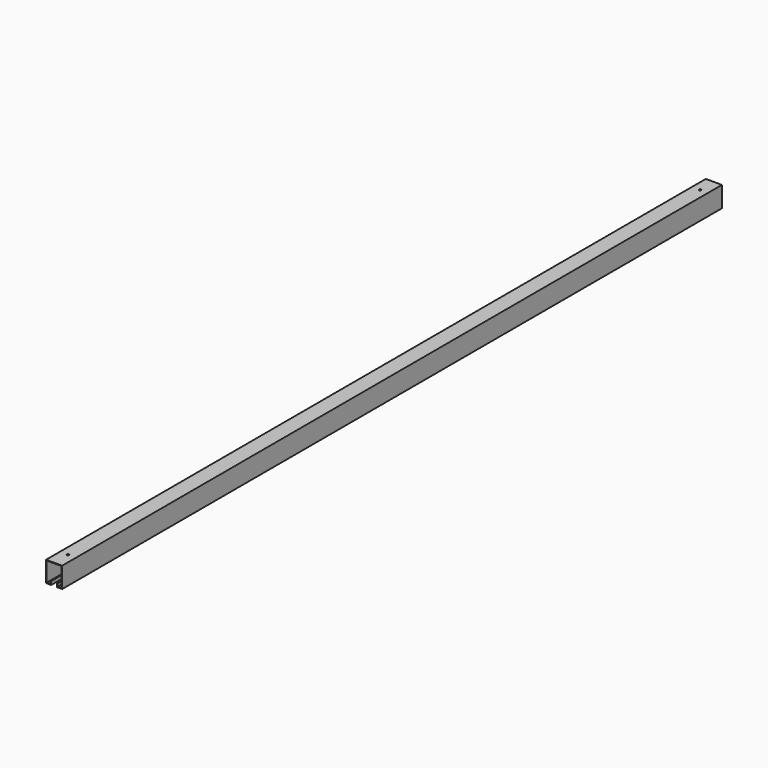
from build123d import *

# Parameters (mm, degrees)
F1_DEPTH = 1219.2
F2_R     = 3.175
F3_DEPTH = 1.7145


with BuildPart() as f1:
    # F0 (on Front) → F1 (new body, symmetric)
    with BuildSketch(Plane.XZ):
        Polygon((23.8125, -30.48), (23.8125, 30.48), (-23.8125, 30.48), (-23.8125, -30.48), (-8.5725, -30.48), (-8.5725, -20.1676), (-10.287, -20.1676), (-10.287, -28.7655), (-22.1615, -28.7655), (-22.1615, 28.7655), (22.1615, 28.7655), (22.1615, -28.7655), (10.287, -28.7655), (10.287, -20.1676), (8.5725, -20.1676), (8.5725, -30.48), align=None)
    extrude(amount=F1_DEPTH, both=True)

    # F2 (on face) → F3 (cut, through all)
    with BuildSketch(Plane.XY.offset(30.48)):
        with Locations((0, 1168.4)):
            Circle(F2_R)
        with Locations((0, -1168.4)):
            Circle(F2_R)
    extrude(amount=-F3_DEPTH, mode=Mode.SUBTRACT)


solid = f1.part
